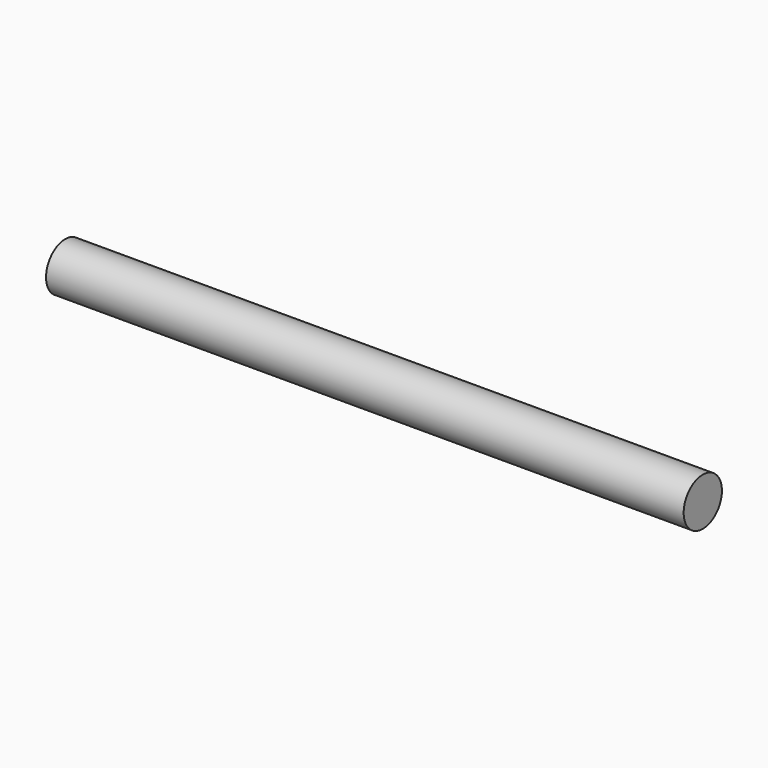
from build123d import *

# Parameters (mm, degrees)
SKETCH_R  = 3
PAD_DEPTH = 40


with BuildPart() as part:
    # Sketch → Pad (new body, symmetric)
    with BuildSketch(Plane.YZ):
        Circle(SKETCH_R)
    extrude(amount=PAD_DEPTH, both=True)


solid = part.part
